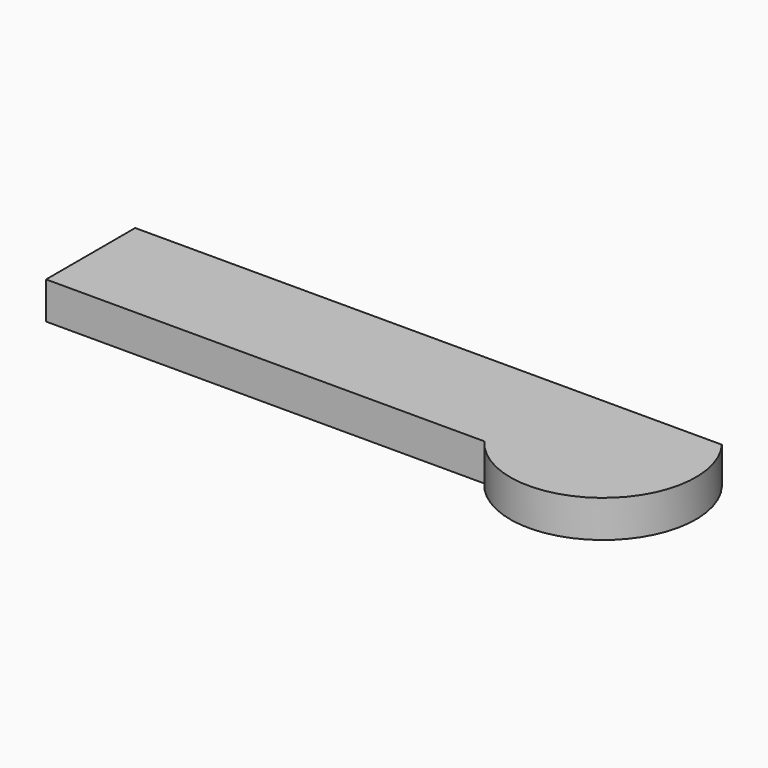
from build123d import *

# Parameters (mm, degrees)
F0_W     = 118
F0_H     = 30
F1_DEPTH = 10


with BuildPart() as f1:
    # F0 (on Top) → F1 (new body)
    with BuildSketch(Plane.XY):
        with Locations((-59, 15)):
            Rectangle(F0_W, F0_H)
        Polygon((0, 30), (0, 0), (40, 30), align=None)
        with BuildLine():
            Line((40, 30), (0, 0))
            ThreePointArc((0, 0), (35, -5), (40, 30))
        make_face()
    extrude(amount=F1_DEPTH)


solid = f1.part
